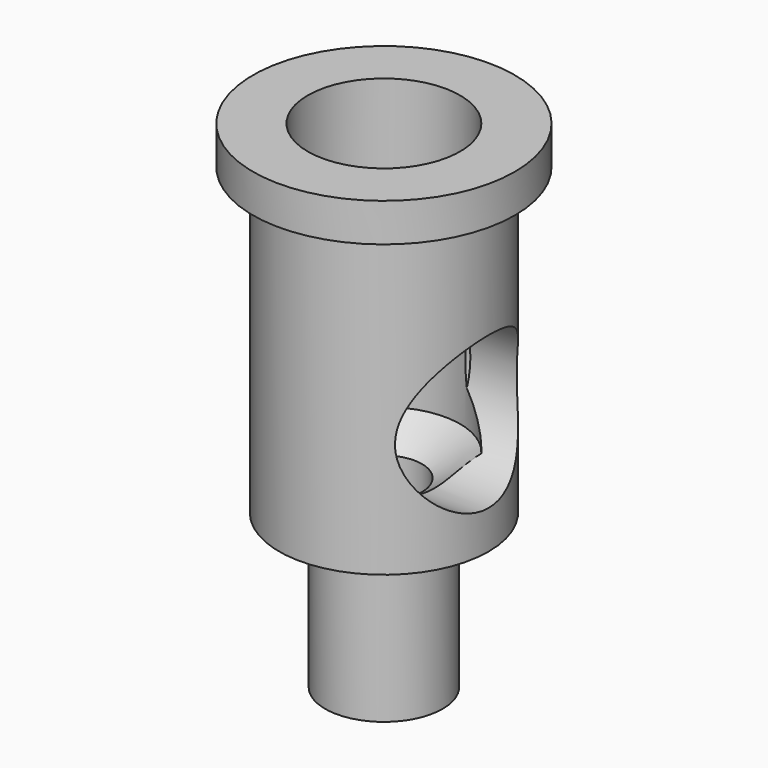
from build123d import *

# Parameters (mm, degrees)
F0_R      = 4.3688
F1_DEPTH  = 12.7
F2_R      = 5.461
F2_R_2    = 4.3688
F3_DEPTH  = 1.6002
F5_D      = 6.35
F5_DEPTH  = 12.065
F5_TIP    = 1.9077324654
F6_R      = 2.4511
F7_DEPTH  = 6.4008
F8_R      = 1.5875
F9_DEPTH  = 20.702
F12_D     = 6.35
F12_DEPTH = 3.302
F12_TIP   = 1.9077324654


with BuildPart() as f1:
    # F0 (on Top) → F1 (new body)
    with BuildSketch(Plane.XY):
        Circle(F0_R)
    extrude(amount=F1_DEPTH)

    # F2 (on face) → F3 (join)
    with BuildSketch(Plane.XY.offset(12.7)):
        Circle(F2_R)
        Circle(F2_R_2, mode=Mode.SUBTRACT)
        Circle(F2_R_2)
    extrude(amount=F3_DEPTH)

    # F5
    with Locations(Plane.XY.offset(14.3002)):
        with Locations((0, 0)):
            Hole(F5_D / 2, depth=F5_DEPTH)
            with Locations((0, 0, -(F5_DEPTH + F5_TIP / 2))):  # 118° drill point
                Cone(0, F5_D / 2, F5_TIP, mode=Mode.SUBTRACT)

    # F6 (on face) → F7 (join)
    with BuildSketch(Plane(origin=(0, 0, 0), x_dir=(1, 0, 0), z_dir=(0, 0, -1))):
        Circle(F6_R)
    extrude(amount=F7_DEPTH)

    # F8 (on face) → F9 (cut, through all)
    with BuildSketch(Plane(origin=(0, 0, -6.4008), x_dir=(1, 0, 0), z_dir=(0, 0, -1))):
        Circle(F8_R)
    extrude(amount=-F9_DEPTH, mode=Mode.SUBTRACT)

    # F12
    with Locations(Plane.YZ.offset(4.3688)):
        with Locations((0, 4.7752)):
            Hole(F12_D / 2, depth=F12_DEPTH)
            with Locations((0, 0, -(F12_DEPTH + F12_TIP / 2))):  # 118° drill point
                Cone(0, F12_D / 2, F12_TIP, mode=Mode.SUBTRACT)


solid = f1.part
